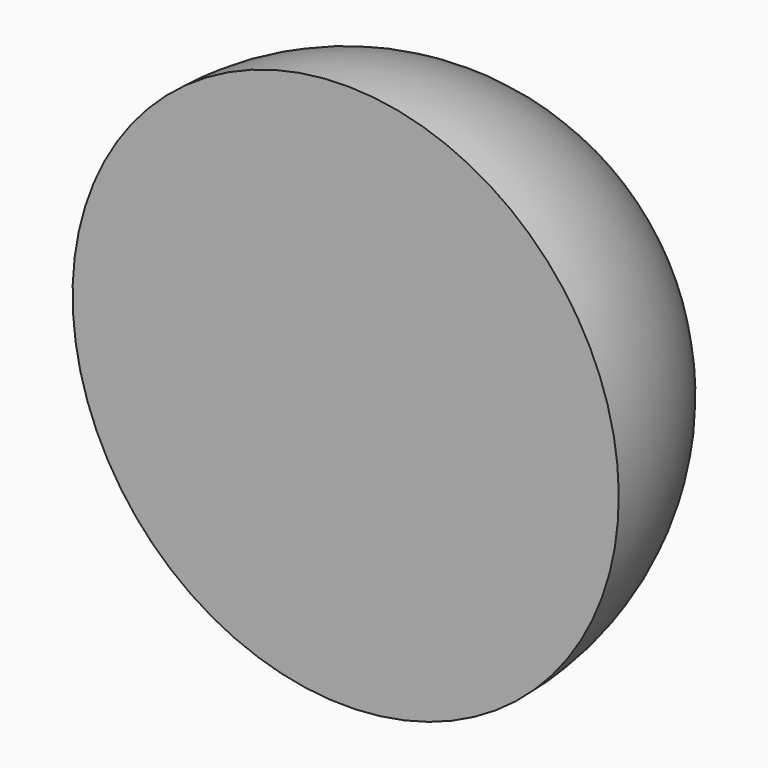
from build123d import *

# Parameters (mm, degrees)
BOX144_W           = 10
BOX144_H           = 10
BOX144_DEPTH       = 10
CUT066_ROLL_ANGLE  = -90
CUT066_PITCH_ANGLE = -32


with BuildPart() as cube009:
    # Box144 → Box144 (new body)
    with BuildSketch(Plane(origin=(-5, -5, -10), x_dir=(1, 0, 0), z_dir=(0, 0, 1))):
        with Locations((5, 5)):
            Rectangle(BOX144_W, BOX144_H)
    extrude(amount=BOX144_DEPTH)


with BuildPart() as sapphire_half_ball_lens009:
    # Sphere009 → Sphere009 (revolve)
    with BuildSketch(Plane.XZ):
        with BuildLine():
            ThreePointArc((0, -2), (2, 0), (0, 2))
            Line((0, 2), (0, -2))
        make_face()
    revolve(axis=Axis((0, 0, 0), (0, 0, 1)))

    # Cut066: cut Cube009
    add(cube009.part, mode=Mode.SUBTRACT)


with BuildPart() as sapphire_half_ball_lens009_1:
    # Cut066 roll: moved
    add(sapphire_half_ball_lens009.part.rotate(Axis((0, 0, 0), (1, 0, 0)), CUT066_ROLL_ANGLE))


with BuildPart() as sapphire_half_ball_lens009_2:
    # Cut066 pitch: moved
    add(sapphire_half_ball_lens009_1.part.rotate(Axis((0, 0, 0), (0, 1, 0)), CUT066_PITCH_ANGLE))


with BuildPart() as sapphire_half_ball_lens009_3:
    # Cut066 placement: moved
    add(sapphire_half_ball_lens009_2.part.moved(Location((-6.15, 3.89, 54.04))))


solid = sapphire_half_ball_lens009_3.part
